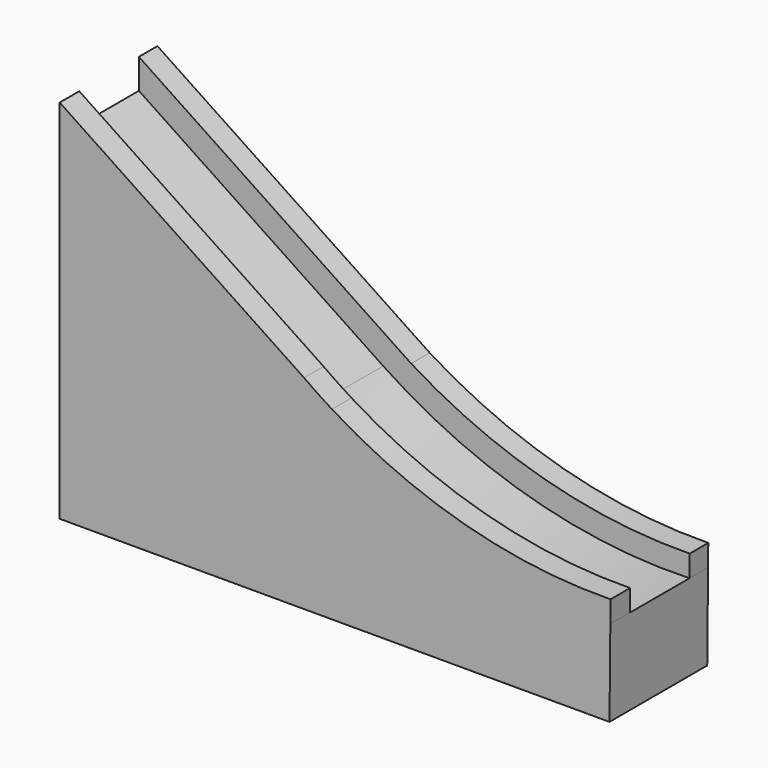
from build123d import *

# Parameters (mm, degrees)
F1_DEPTH      = 5.08
F2_START      = -15.494
F2_DEPTH      = 4.826
F3_DEPTH      = 15.748
F3_DEPTH_BACK = 1.016


with BuildPart() as f1:
    # F0 (on Front) → F1 (new body)
    with BuildSketch(Plane.XZ):
        with BuildLine():
            Line((-50.7880747318, 53.6880129844), (-50.7880747318, 47.4713742733))
            Line((-50.7880747318, 47.4713742733), (0, 13.6126577854))
            ThreePointArc((0, 13.6126577854), (30.4237649591, -0.4397436147), (63.6866472612, -4.5209346608))
            Line((63.6866472612, -4.5209346608), (63.7305527925, 0))
            ThreePointArc((63.7305527925, 0), (33.6220207616, 3.8020605731), (5.8134317271, 15.9536753451))
            ThreePointArc((5.8134317271, 15.9536753451), (2.8748778359, 17.8437288794), (0, 19.8292964965))
            Line((0, 19.8292964965), (-50.7880747318, 53.6880129844))
        make_face()
        with BuildLine():
            Line((-50.7880747318, 47.4713742733), (-50.7880747318, -22.5119870156))
            Line((-50.7880747318, -22.5119870156), (63.5119252682, -22.5119870156))
            Line((63.5119252682, -22.5119870156), (63.6866472612, -4.5209346608))
            ThreePointArc((63.6866472612, -4.5209346608), (30.4237649591, -0.4397436147), (0, 13.6126577854))
            Line((0, 13.6126577854), (-50.7880747318, 47.4713742733))
        make_face()
    extrude(amount=F1_DEPTH)



with BuildPart() as f2:
    # F0 (on Front) → F2 (new body)
    with BuildSketch(Plane.XZ.offset(F2_START)):
        with BuildLine():
            Line((-50.7880747318, 47.4713742733), (-50.7880747318, -22.5119870156))
            Line((-50.7880747318, -22.5119870156), (63.5119252682, -22.5119870156))
            Line((63.5119252682, -22.5119870156), (63.6866472612, -4.5209346608))
            ThreePointArc((63.6866472612, -4.5209346608), (30.4237649591, -0.4397436147), (0, 13.6126577854))
            Line((0, 13.6126577854), (-50.7880747318, 47.4713742733))
        make_face()
        with BuildLine():
            Line((-50.7880747318, 53.6880129844), (-50.7880747318, 47.4713742733))
            Line((-50.7880747318, 47.4713742733), (0, 13.6126577854))
            ThreePointArc((0, 13.6126577854), (30.4237649591, -0.4397436147), (63.6866472612, -4.5209346608))
            Line((63.6866472612, -4.5209346608), (63.7305527925, 0))
            ThreePointArc((63.7305527925, 0), (33.6220207616, 3.8020605731), (5.8134317271, 15.9536753451))
            ThreePointArc((5.8134317271, 15.9536753451), (2.8748778359, 17.8437288794), (0, 19.8292964965))
            Line((0, 19.8292964965), (-50.7880747318, 53.6880129844))
        make_face()
        with BuildLine():
            Line((5.8134317271, 15.9536753451), (0, 19.8292964965))
            ThreePointArc((0, 19.8292964965), (2.8748778359, 17.8437288794), (5.8134317271, 15.9536753451))
        make_face()
    extrude(amount=-F2_DEPTH)


with BuildPart() as f1_1:
    add(f1.part)

    add(f2.part)  # F3 merges F2
    # F0 (on Front) → F3 (join, two sides)
    with BuildSketch(Plane.XZ) as f3_sk:
        with BuildLine():
            Line((-50.7880747318, 47.4713742733), (-50.7880747318, -22.5119870156))
            Line((-50.7880747318, -22.5119870156), (63.5119252682, -22.5119870156))
            Line((63.5119252682, -22.5119870156), (63.6866472612, -4.5209346608))
            ThreePointArc((63.6866472612, -4.5209346608), (30.4237649591, -0.4397436147), (0, 13.6126577854))
            Line((0, 13.6126577854), (-50.7880747318, 47.4713742733))
        make_face()
    extrude(amount=-F3_DEPTH)
    extrude(f3_sk.sketch, amount=F3_DEPTH_BACK)


solid = f1_1.part
